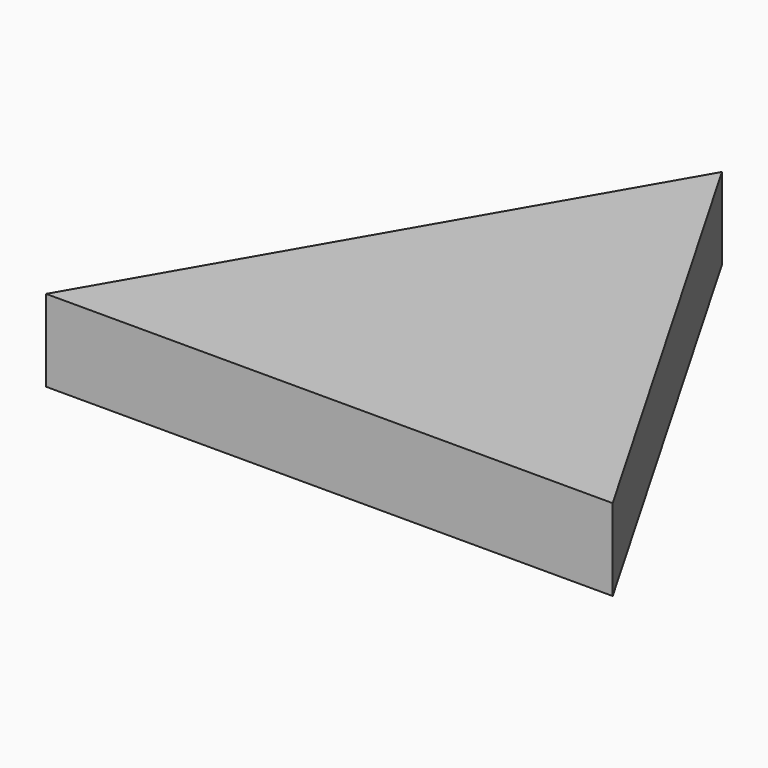
from build123d import *

# Parameters (mm, degrees)
PAD_DEPTH = 10


with BuildPart() as part:
    # Sketch → Pad (new body)
    with BuildSketch(Plane.XY):
        Polygon((0, 33.819816), (34.641016, -26.180184), (-34.641016, -26.180184), align=None)
    extrude(amount=PAD_DEPTH)


solid = part.part
